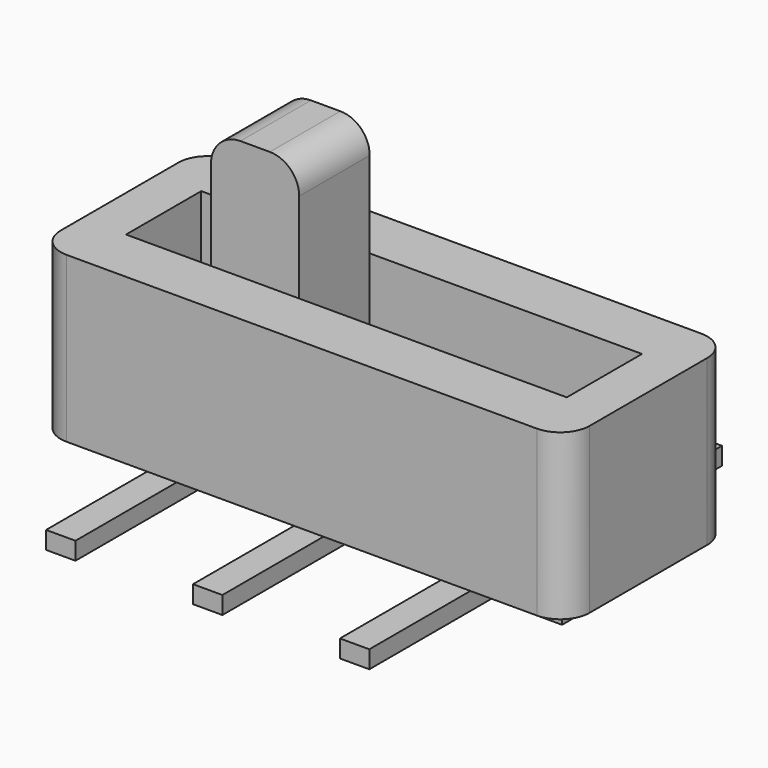
from build123d import *

# Parameters (mm, degrees)
F2_W     = 9
F2_H     = 3.5
F2_W_2   = 7.5
F2_H_2   = 1.6
F3_DEPTH = 2.8
F4_DEPTH = 0.4
F2_W_3   = 1.5
F2_H_3   = 1.5
F5_DEPTH = 4.8
F0_W     = 0.5
F0_H     = 2.6
F6_DEPTH = 0.3
F7_R     = 0.5
F8_R     = 0.5
F9_R     = 0.5
F10_R    = 0.5
F11_R    = 0.5
F12_R    = 0.5


with BuildPart() as f3:
    # F2 (on offset) → F3 (new body)
    with BuildSketch(Plane.XY.offset(0.4)):
        Rectangle(F2_W, F2_H)
        Rectangle(F2_W_2, F2_H_2, mode=Mode.SUBTRACT)
    extrude(amount=F3_DEPTH)

    # F9
    f9_edges = [f3.edges().sort_by_distance(p)[0] for p in [
        (-4.5, -1.75, 1.8),
    ]]
    fillet(f9_edges, radius=F9_R)

    # F10
    f10_edges = [f3.edges().sort_by_distance(p)[0] for p in [
        (-4.5, 1.75, 1.8),
    ]]
    fillet(f10_edges, radius=F10_R)

    # F11
    f11_edges = [f3.edges().sort_by_distance(p)[0] for p in [
        (4.5, -1.75, 1.8),
    ]]
    fillet(f11_edges, radius=F11_R)

    # F12
    f12_edges = [f3.edges().sort_by_distance(p)[0] for p in [
        (4.5, 1.75, 1.8),
    ]]
    fillet(f12_edges, radius=F12_R)


with BuildPart() as f4:
    # F0 (on Top) → F4 (new body)
    with BuildSketch(Plane.XY):
        Polygon((3.95, -1.15), (3.95, 1.15), (2.75, 1.15), (2.25, 1.15), (0.25, 1.15), (-0.25, 1.15), (-2.25, 1.15), (-2.75, 1.15), (-3.95, 1.15), (-3.95, -1.15), (-2.75, -1.15), (-2.25, -1.15), (-0.25, -1.15), (-0.25, -1.147655), (0.25, -1.15), (2.25, -1.15), (2.75, -1.15), align=None)
    extrude(amount=F4_DEPTH)


with BuildPart() as f5:
    # F2 (on offset) → F5 (new body)
    with BuildSketch(Plane.XY.offset(0.4)):
        with Locations((-1.593309, 0)):
            Rectangle(F2_W_3, F2_H_3)
    extrude(amount=F5_DEPTH)

    # F7
    f7_edges = [f5.edges().sort_by_distance(p)[0] for p in [
        (-2.343309, 0, 5.2),
    ]]
    fillet(f7_edges, radius=F7_R)

    # F8
    f8_edges = [f5.edges().sort_by_distance(p)[0] for p in [
        (-0.843309, 0, 5.2),
    ]]
    fillet(f8_edges, radius=F8_R)


with BuildPart() as f6:
    # F0 (on Top) → F6 (new body)
    with BuildSketch(Plane.XY):
        with Locations((-2.5, 2.45)):
            Rectangle(F0_W, F0_H)
        with Locations((0, 2.45)):
            Rectangle(F0_W, F0_H)
        with Locations((2.5, 2.45)):
            Rectangle(F0_W, F0_H)
        with Locations((2.5, -2.45)):
            Rectangle(F0_W, F0_H)
        with Locations((0, -2.45)):
            Rectangle(F0_W, F0_H)
        with Locations((-2.5, -2.45)):
            Rectangle(F0_W, F0_H)
    extrude(amount=F6_DEPTH)


solid = Compound([f3.part, f4.part, f5.part, f6.part])
